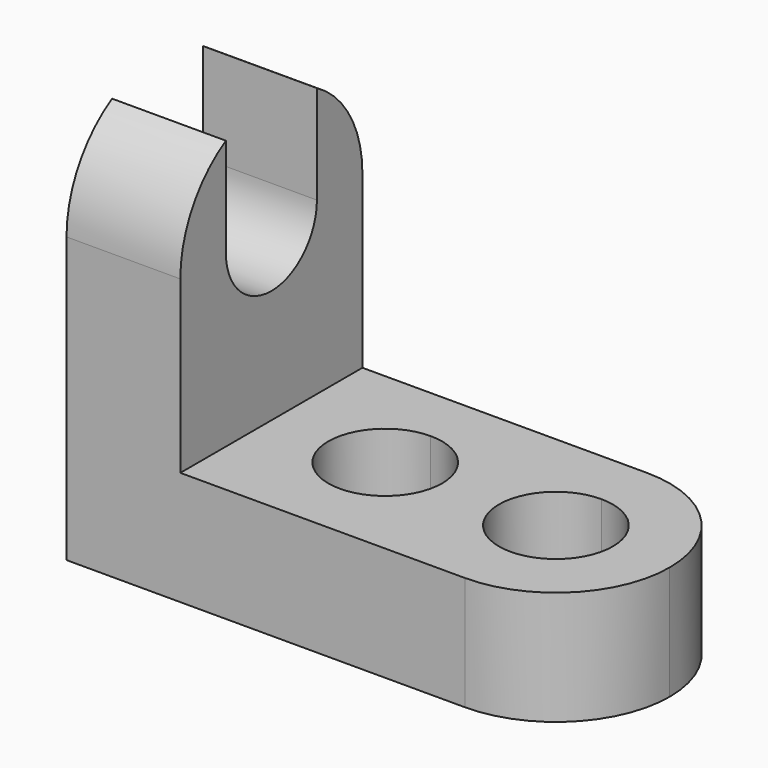
from build123d import *

# Parameters (mm, degrees)
F1_DEPTH = 25.4
F3_DEPTH = 12.701
F5_DEPTH = 12.701
F7_DEPTH = 12.701


with BuildPart() as f1:
    # F0 (on Front) → F1 (new body)
    with BuildSketch(Plane.XZ):
        Polygon((12.7, 44.45), (0, 44.45), (0, 0), (57.15, 0), (57.15, 12.7), (12.7, 12.7), align=None)
    extrude(amount=F1_DEPTH)

    # F2 (on face) → F3 (cut, through all)
    with BuildSketch(Plane.YZ.offset(12.7)):
        with BuildLine():
            Line((-19.05, 31.75), (-6.35, 31.75))
            ThreePointArc((-6.35, 31.75), (-12.7, 38.1), (-19.05, 31.75))
        make_face()
        with BuildLine():
            ThreePointArc((-19.05, 31.75), (-12.7, 25.4), (-6.35, 31.75))
            Line((-6.35, 31.75), (-19.05, 31.75))
        make_face()
        with BuildLine():
            ThreePointArc((-25.4, 31.75), (-21.6802561211, 40.7302561211), (-12.7, 44.45))
            Line((-12.7, 44.45), (-25.4, 44.45))
            Line((-25.4, 44.45), (-25.4, 31.75))
        make_face()
        with BuildLine():
            ThreePointArc((-12.7, 44.45), (-3.7197438789, 40.7302561211), (0, 31.75))
            Line((0, 31.75), (0, 44.45))
            Line((0, 44.45), (-12.7, 44.45))
        make_face()
    extrude(amount=-F3_DEPTH, mode=Mode.SUBTRACT)

    # F4 (on face) → F5 (cut, through all)
    with BuildSketch(Plane.YZ.offset(12.7)):
        with BuildLine():
            Line((-19.05, 42.7485226281), (-19.05, 31.75))
            ThreePointArc((-19.05, 31.75), (-12.7, 38.1), (-6.35, 31.75))
            Line((-6.35, 31.75), (-6.35, 42.7485226281))
            ThreePointArc((-6.35, 42.7485226281), (-12.7, 44.45), (-19.05, 42.7485226281))
        make_face()
    extrude(amount=-F5_DEPTH, mode=Mode.SUBTRACT)

    # F6 (on face) → F7 (cut, through all)
    with BuildSketch(Plane.XY.offset(12.7)):
        with BuildLine():
            Line((25.4, -19.0476986749), (25.4, -6.3523013251))
            ThreePointArc((25.4, -6.3523013251), (19.0523013251, -12.7), (25.4, -19.0476986749))
        make_face()
        with BuildLine():
            ThreePointArc((31.7476986749, -12.7), (29.888500778, -8.211499222), (25.4, -6.3523013251))
            Line((25.4, -6.3523013251), (25.4, -19.0476986749))
            ThreePointArc((25.4, -19.0476986749), (29.888500778, -17.188500778), (31.7476986749, -12.7))
        make_face()
        with BuildLine():
            Line((44.45, -19.05), (44.45, -6.35))
            ThreePointArc((44.45, -6.35), (38.1, -12.7), (44.45, -19.05))
        make_face()
        with BuildLine():
            ThreePointArc((50.8, -12.7), (48.9401280605, -8.2098719395), (44.45, -6.35))
            Line((44.45, -6.35), (44.45, -19.05))
            ThreePointArc((44.45, -19.05), (48.9401280605, -17.1901280605), (50.8, -12.7))
        make_face()
        with BuildLine():
            Line((57.15, 0), (44.45, 0))
            ThreePointArc((44.45, 0), (53.4302561211, -3.7197438789), (57.15, -12.7))
            Line((57.15, -12.7), (57.15, 0))
        make_face()
        with BuildLine():
            Line((57.15, -25.4), (57.15, -12.7))
            ThreePointArc((57.15, -12.7), (53.4302561211, -21.6802561211), (44.45, -25.4))
            Line((44.45, -25.4), (57.15, -25.4))
        make_face()
    extrude(amount=-F7_DEPTH, mode=Mode.SUBTRACT)


solid = f1.part
